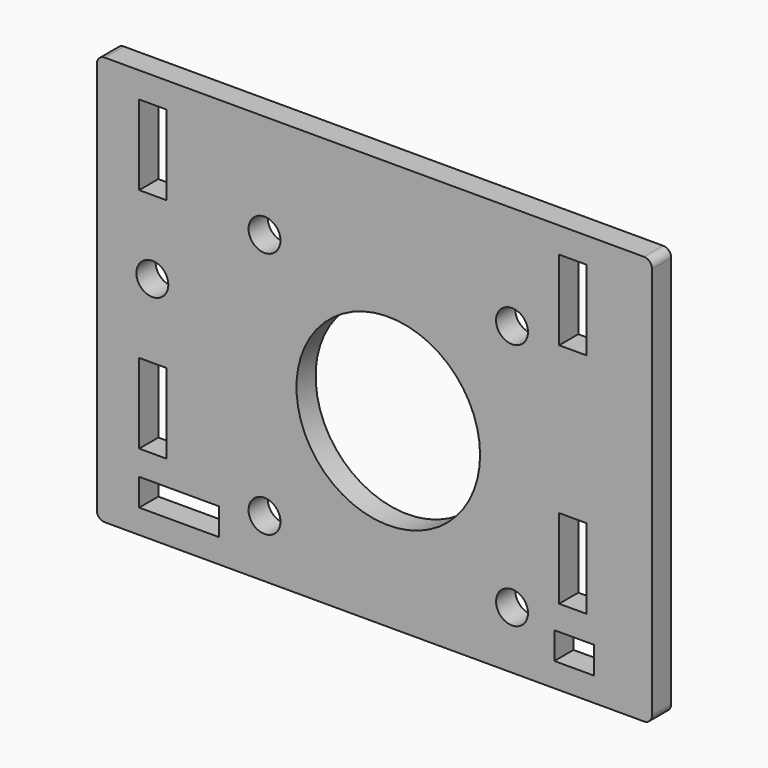
from build123d import *

# Parameters (mm, degrees)
F0_W     = 10
F0_H     = 3.4
F0_R     = 2
F0_W_2   = 3.4
F0_H_2   = 10
F0_W_3   = 5
F0_R_2   = 11.5
F1_DEPTH = 3


with BuildPart() as f1:
    # F0 (on Front) → F1 (new body)
    with BuildSketch(Plane.XZ):
        with BuildLine():
            Line((53.234448, 28.527861), (-14.302464, 28.527861))
            ThreePointArc((-14.302464, 28.527861), (-15.009571, 28.234968), (-15.302464, 27.527861))
            Line((-15.302464, 27.527861), (-15.302464, -21.710845))
            ThreePointArc((-15.302464, -21.710845), (-15.009571, -22.417952), (-14.302464, -22.710845))
            Line((-14.302464, -22.710845), (53.234448, -22.710845))
            ThreePointArc((53.234448, -22.710845), (53.941555, -22.417952), (54.234448, -21.710845))
            Line((54.234448, -21.710845), (54.234448, 27.527861))
            ThreePointArc((54.234448, 27.527861), (53.941555, 28.234968), (53.234448, 28.527861))
        make_face()
        with Locations((-5, -17.995423)):
            Rectangle(F0_W, F0_H, mode=Mode.SUBTRACT)
        with Locations((5.7, -15.5)):
            Circle(F0_R, mode=Mode.SUBTRACT)
        with Locations((-8.3, -8.186928)):
            Rectangle(F0_W_2, F0_H_2, mode=Mode.SUBTRACT)
        with Locations((36.7, -15.5)):
            Circle(F0_R, mode=Mode.SUBTRACT)
        with Locations((44.5, -17.995423)):
            Rectangle(F0_W_3, F0_H, mode=Mode.SUBTRACT)
        with Locations((21.2, 0)):
            Circle(F0_R_2, mode=Mode.SUBTRACT)
        with Locations((44.3, -8.186928)):
            Rectangle(F0_W_2, F0_H_2, mode=Mode.SUBTRACT)
        with Locations((-8.348059, 6.063072)):
            Circle(F0_R, mode=Mode.SUBTRACT)
        with Locations((5.7, 15.5)):
            Circle(F0_R, mode=Mode.SUBTRACT)
        with Locations((-8.3, 20.313072)):
            Rectangle(F0_W_2, F0_H_2, mode=Mode.SUBTRACT)
        with Locations((36.7, 15.5)):
            Circle(F0_R, mode=Mode.SUBTRACT)
        with Locations((44.3, 20.313072)):
            Rectangle(F0_W_2, F0_H_2, mode=Mode.SUBTRACT)
    extrude(amount=F1_DEPTH)


solid = f1.part
